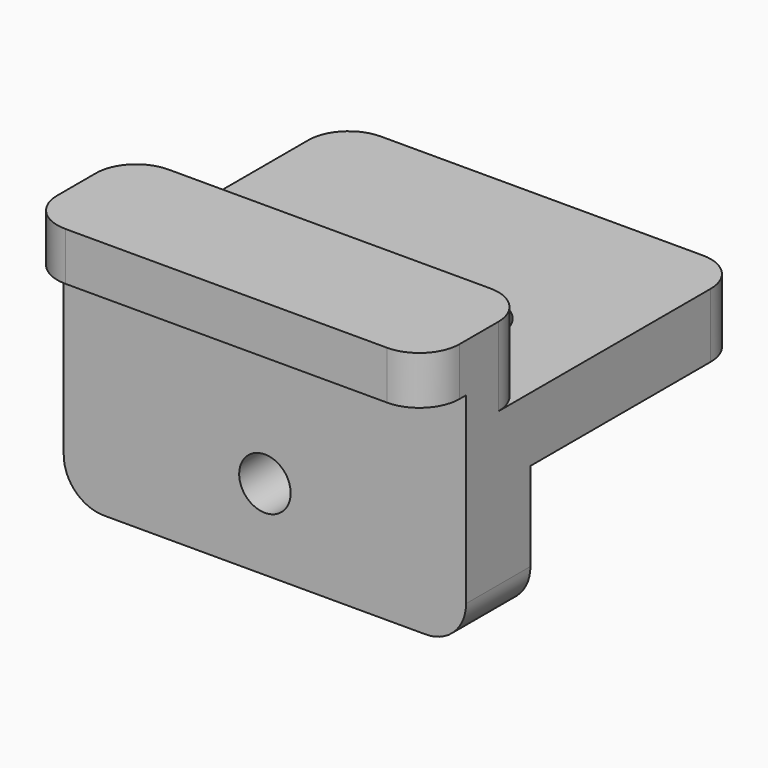
from build123d import *

# Parameters (mm, degrees)
F1_DEPTH = 50
F3_R     = 3.2
F4_DEPTH = 16.001
F2_W     = 30
F2_H     = 12
F5_DEPTH = 24.001
F6_R     = 5


with BuildPart() as f1:
    # F0 (on Right) → F1 (new body)
    with BuildSketch(Plane.YZ):
        Polygon((0, -8), (0, 0), (-33, 0), (-33, 9.8), (-49, 9.8), (-49, 3.8), (-43, 3.8), (-43, -24), (-33, -24), (-33, -8), align=None)
    extrude(amount=F1_DEPTH)

    # F3 (on face) → F4 (cut, through all)
    with BuildSketch(Plane(origin=(0, -33, 0), x_dir=(-1, 0, 0), z_dir=(0, 1, 0))):
        with Locations((-25, -14)):
            Circle(F3_R)
    extrude(amount=-F4_DEPTH, mode=Mode.SUBTRACT)

    # F2 (on face) → F5 (cut, through all)
    with BuildSketch(Plane.XY):
        with Locations((25, -26)):
            Rectangle(F2_W, F2_H)
    extrude(amount=-F5_DEPTH, mode=Mode.SUBTRACT)

    # F6
    f6_edges = [f1.edges().sort_by_distance(p)[0] for p in [
        (50, 0, -4),
        (0, 0, -4),
        (50, -33, 4.9),
        (0, -33, 4.9),
        (50, -49, 6.8),
        (0, -49, 6.8),
        (50, -38, -24),
        (0, -38, -24),
        (10, -32, -4),
        (40, -32, -4),
        (40, -20, -4),
        (10, -20, -4),
    ]]
    fillet(f6_edges, radius=F6_R)


solid = f1.part
